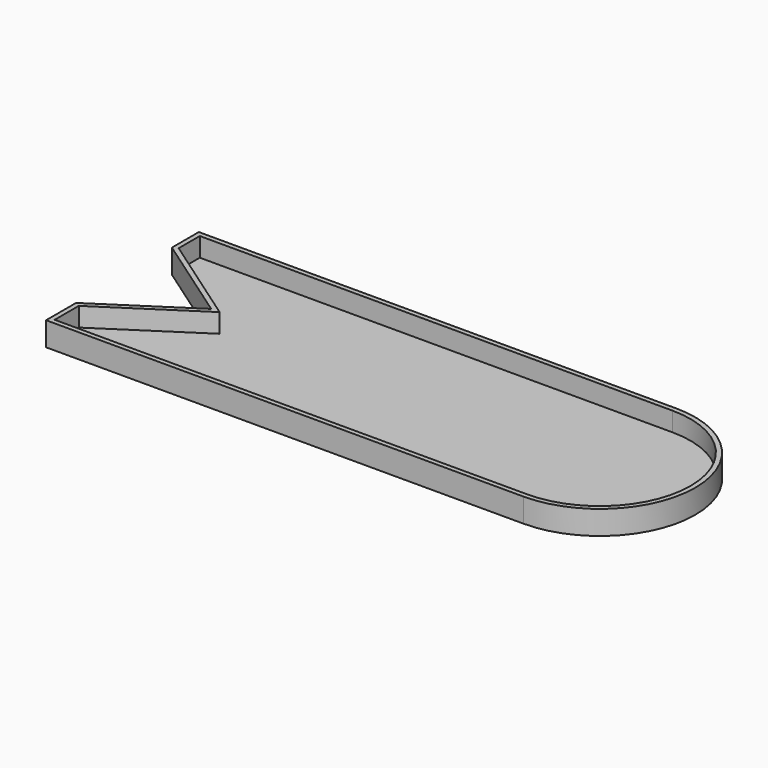
from build123d import *

# Parameters (mm, degrees)
F1_DEPTH = 6.35
F2_T     = -1.27


with BuildPart() as f1:
    # F0 (on Top) → F1 (new body)
    with BuildSketch(Plane.XY):
        with BuildLine():
            ThreePointArc((63.5, -25.4), (88.9, 0), (63.5, 25.4))
            Line((63.5, 25.4), (63.5, -25.4))
        make_face()
        Polygon((63.5, 25.4), (-63.5, 25.4), (-63.5, 16.4420589135), (-39.8965291679, 0), (-63.5, -15.4324419141), (-63.5, -25.4), (63.5, -25.4), align=None)
    extrude(amount=F1_DEPTH)

    # F2
    f2_openings = [f1.faces().sort_by_distance(p)[0] for p in [
        (13.571184, -0.017859, 6.35),
    ]]
    offset(amount=F2_T, openings=f2_openings, kind=Kind.INTERSECTION)


solid = f1.part
